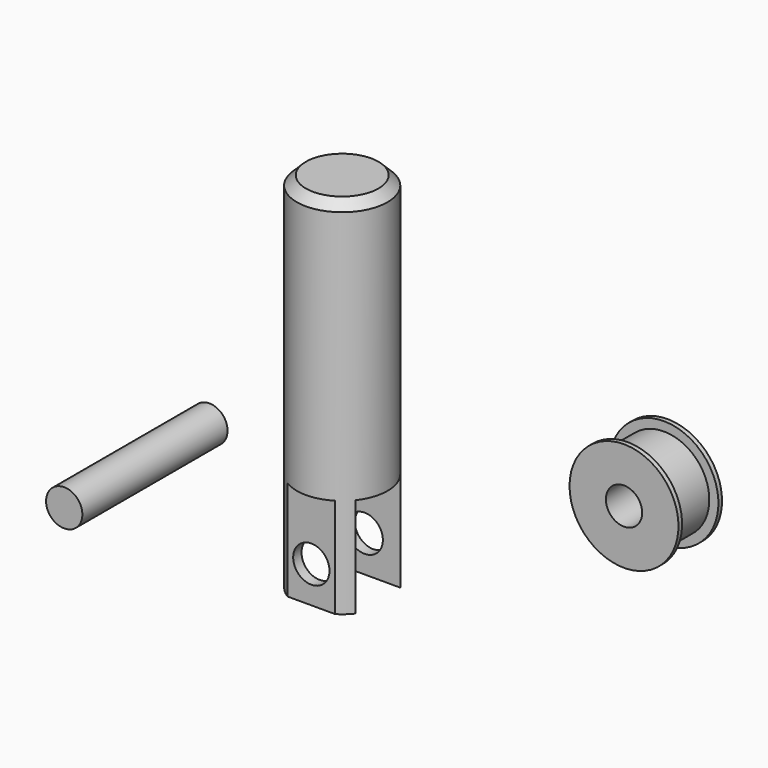
from build123d import *

# Parameters (mm, degrees)
F0_W      = 5
F0_H      = 40
F2_W      = 18
F2_H      = 6.2
F2_W_2    = 8.9579941705
F2_H_2    = 2.2900672629
F3_DEPTH  = 11
F4_R      = 2
F5_DEPTH  = 12.5
F6_R      = 2
F7_DEPTH  = 10
F10_SIZE  = 1
F11_DEPTH = 10


with BuildPart() as f1:
    # F0 (on Front) → F1 (revolve)
    with BuildSketch(Plane.XZ):
        with Locations((-2.5, 0)):
            Rectangle(F0_W, F0_H)
    revolve(axis=Axis((0, 0, 0), (0, 0, 1)))

    # F2 (on face) → F3 (cut)
    with BuildSketch(Plane(origin=(0, 0, -20), x_dir=(1, 0, 0), z_dir=(0, 0, -1))):
        Rectangle(F2_W, F2_H)
        with Locations((0, -5.3950336315)):
            Rectangle(F2_W_2, F2_H_2)
        with Locations((0, 5.3950336315)):
            Rectangle(F2_W_2, F2_H_2)
    extrude(amount=-F3_DEPTH, mode=Mode.SUBTRACT)

    # F4 (on face) → F5 (cut, symmetric)
    with BuildSketch(Plane.XZ.offset(-3.1)):
        with Locations((0, -16)):
            Circle(F4_R)
    extrude(amount=F5_DEPTH, both=True, mode=Mode.SUBTRACT)

    # F10
    f10_edges = [f1.edges().sort_by_distance(p)[0] for p in [
        (5, 0, 20),
    ]]
    chamfer(f10_edges, length=F10_SIZE)

    # F2 (on face) → F11 (cut)
    with BuildSketch(Plane(origin=(0, 0, -20), x_dir=(1, 0, 0), z_dir=(0, 0, -1))):
        Rectangle(F2_W, F2_H)
        with Locations((0, -5.3950336315)):
            Rectangle(F2_W_2, F2_H_2)
        with Locations((0, 5.3950336315)):
            Rectangle(F2_W_2, F2_H_2)
    extrude(amount=-F11_DEPTH, mode=Mode.SUBTRACT)


with BuildPart() as f7:
    # F6 (on Front) → F7 (new body, symmetric)
    with BuildSketch(Plane.XZ):
        with Locations((-22.6276665926, -15.5621189624)):
            Circle(F6_R)
    extrude(amount=F7_DEPTH, both=True)


with BuildPart() as f9:
    # F8 (on Top) → F9 (revolve)
    with BuildSketch(Plane.XY):
        Polygon((27.4488952756, -3), (31.4488952756, -3), (31.4488952756, 3), (27.4488952756, 3), (27.4488952756, 2.5), (28.4488952756, 2.5), (28.4488952756, -2.5), (27.4488952756, -2.5), align=None)
    revolve(axis=Axis((33.4488952756, -1.0138176493, 0), (0, 1, 0)))


solid = Compound([f1.part, f7.part, f9.part])
